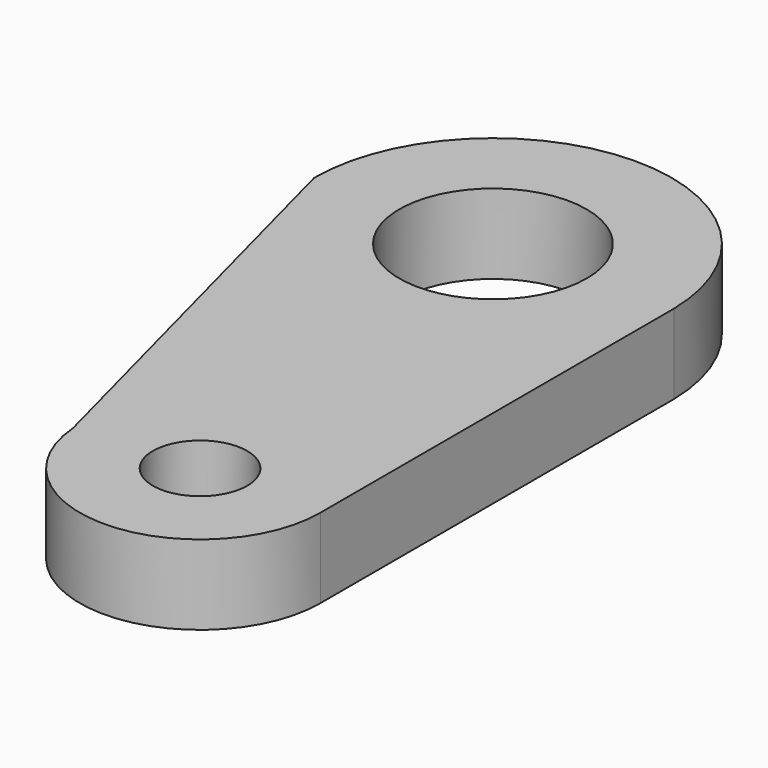
from build123d import *

# Parameters (mm, degrees)
F0_R     = 15.043231
F0_R_2   = 29.884634
F1_DEPTH = 25.4


with BuildPart() as f1:
    # F0 (on Top) → F1 (new body)
    with BuildSketch(Plane.XY):
        with BuildLine():
            ThreePointArc((57.019541, 0.869514), (-0.43477, 57.024513), (-57.02617, 0))
            Line((-57.02617, 0), (-19.565552, -143.03863))
            ThreePointArc((-19.565552, -143.03863), (20.135156, -178.433137), (57.019541, -140.112653))
            Line((57.019541, -140.112653), (57.019541, 0.869514))
        make_face()
        with Locations((18.6711, -140.112653)):
            Circle(F0_R, mode=Mode.SUBTRACT)
        Circle(F0_R_2, mode=Mode.SUBTRACT)
    extrude(amount=F1_DEPTH)


solid = f1.part
